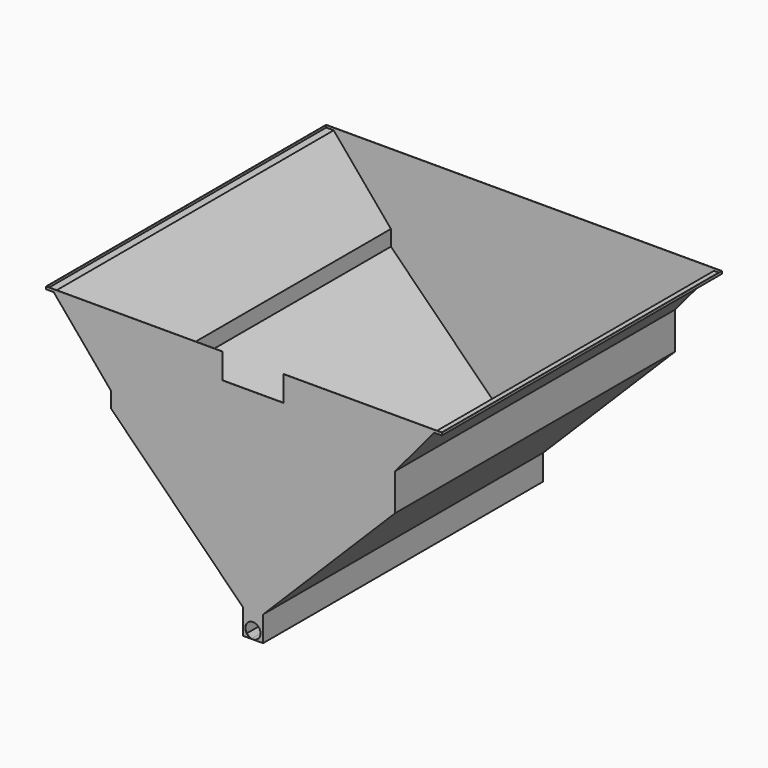
from build123d import *

# Parameters (mm, degrees)
F0_W     = 76.2
F0_H     = 25.4
F1_DEPTH = 3505.2
F2_T     = -2.54
F3_R     = 76.2
F4_DEPTH = 3505.201
F5_W     = 609.6
F5_H     = 254
F6_DEPTH = 25.4


with BuildPart() as f1:
    # F0 (on Front) → F1 (new body)
    with BuildSketch(Plane.XZ):
        with Locations((1853.3025709268, 2171.7)):
            Rectangle(F0_W, F0_H)
        Polygon((1423.3592440619, 1692.0193074747), (1815.2025709268, 2159), (1815.2025709268, 2184.4), (-1994.7974290732, 2184.4), (-1994.7974290732, 2159), (-1423.3592440619, 1477.9864900672), (-1423.3592440619, 1321.7592440619), (-101.6, 0), (-101.6, -254), (101.6, -254), (101.6, 0), (1423.3592440619, 1321.7592440619), align=None)
        with Locations((-2032.8974290732, 2171.7)):
            Rectangle(F0_W, F0_H)
    extrude(amount=-F1_DEPTH)

    # F2
    f2_openings = [f1.faces().sort_by_distance(p)[0] for p in [
        (-89.797429, 1752.6, 2184.4),
    ]]
    offset(amount=F2_T, openings=f2_openings, kind=Kind.INTERSECTION)

    # F3 (on face) → F4 (cut, through all)
    with BuildSketch(Plane.XZ):
        with Locations((0, -176.53)):
            Circle(F3_R)
    extrude(amount=-F4_DEPTH, mode=Mode.SUBTRACT)

    # F5 (on face) → F6 (cut)
    with BuildSketch(Plane.XZ):
        with Locations((0, 2057.4)):
            Rectangle(F5_W, F5_H)
    extrude(amount=-F6_DEPTH, mode=Mode.SUBTRACT)


solid = f1.part
